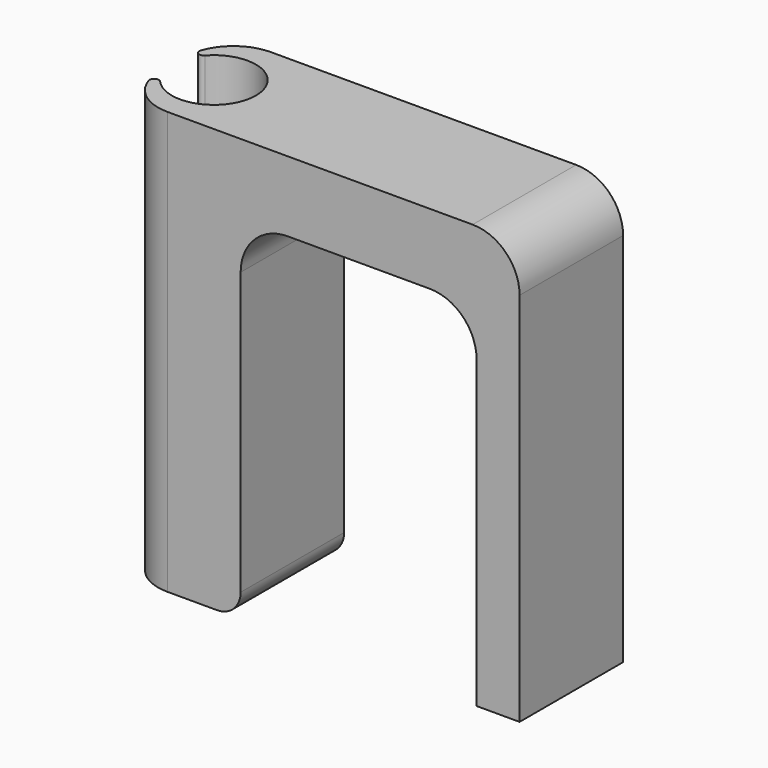
from build123d import *

# Parameters (mm, degrees)
F1_DEPTH = 7
F2_R     = 4.55
F3_DEPTH = 45.721
F4_R     = 5.08
F5_R     = 0.5
F6_R     = 5.08
F7_R     = 2.54


with BuildPart() as f1:
    # F0 (on Front) → F1 (new body, symmetric)
    with BuildSketch(Plane.XZ):
        Polygon((21.59, 22.86), (-21.59, 22.86), (-21.59, -22.86), (-8.59, -22.86), (-8.59, 15.24), (16.937, 15.24), (16.937, -22.86), (21.59, -22.86), align=None)
    extrude(amount=F1_DEPTH, both=True)

    # F2 (on face) → F3 (cut, through all)
    with BuildSketch(Plane.XY.offset(22.86)):
        with Locations((-17.0908, 0)):
            Circle(F2_R)
    extrude(amount=-F3_DEPTH, mode=Mode.SUBTRACT)

    # F4
    f4_edges = [f1.edges().sort_by_distance(p)[0] for p in [
        (-8.59, 0, 15.24),
        (16.937, 0, 15.24),
        (-21.59, -7, 0),
        (-21.59, 7, 0),
    ]]
    fillet(f4_edges, radius=F4_R)

    # F5
    f5_edges = [f1.edges().sort_by_distance(p)[0] for p in [
        (-21.59, -0.678011, 0),
        (-21.59, 0.678011, 0),
    ]]
    fillet(f5_edges, radius=F5_R)

    # F6
    f6_edges = [f1.edges().sort_by_distance(p)[0] for p in [
        (21.59, 0, 22.86),
    ]]
    fillet(f6_edges, radius=F6_R)

    # F7
    f7_edges = [f1.edges().sort_by_distance(p)[0] for p in [
        (-8.59, 0, -22.86),
    ]]
    fillet(f7_edges, radius=F7_R)


solid = f1.part
